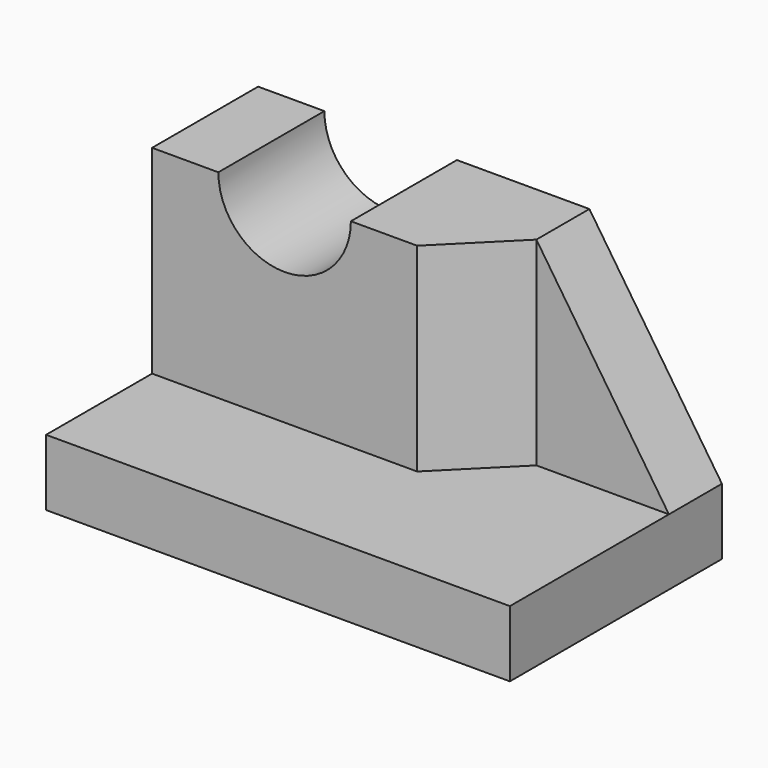
from build123d import *

# Parameters (mm, degrees)
F0_W     = 70
F0_H     = 40
F1_DEPTH = 40
F3_DEPTH = 30
F4_SIZE2 = 30
F4_SIZE  = 20
F6_DEPTH = 20


with BuildPart() as f1:
    # F0 (on Top) → F1 (new body)
    with BuildSketch(Plane.XY):
        with Locations((35, 20)):
            Rectangle(F0_W, F0_H)
    extrude(amount=F1_DEPTH)

    # F2 (on face) → F3 (cut)
    with BuildSketch(Plane.XY.offset(40)):
        Polygon((40, 20), (0, 20), (0, 0), (70, 0), (70, 30), (50, 30), align=None)
    extrude(amount=-F3_DEPTH, mode=Mode.SUBTRACT)

    # F4
    f4_edges = [f1.edges().sort_by_distance(p)[0] for p in [
        (70, 35, 40),
    ]]
    chamfer(f4_edges, length=F4_SIZE, length2=F4_SIZE2)

    # F5 (on face) → F6 (cut, through all)
    with BuildSketch(Plane.XZ.offset(-20)):
        with BuildLine():
            Line((30, 40), (10, 40))
            ThreePointArc((10, 40), (20, 30), (30, 40))
        make_face()
    extrude(amount=-F6_DEPTH, mode=Mode.SUBTRACT)


solid = f1.part
